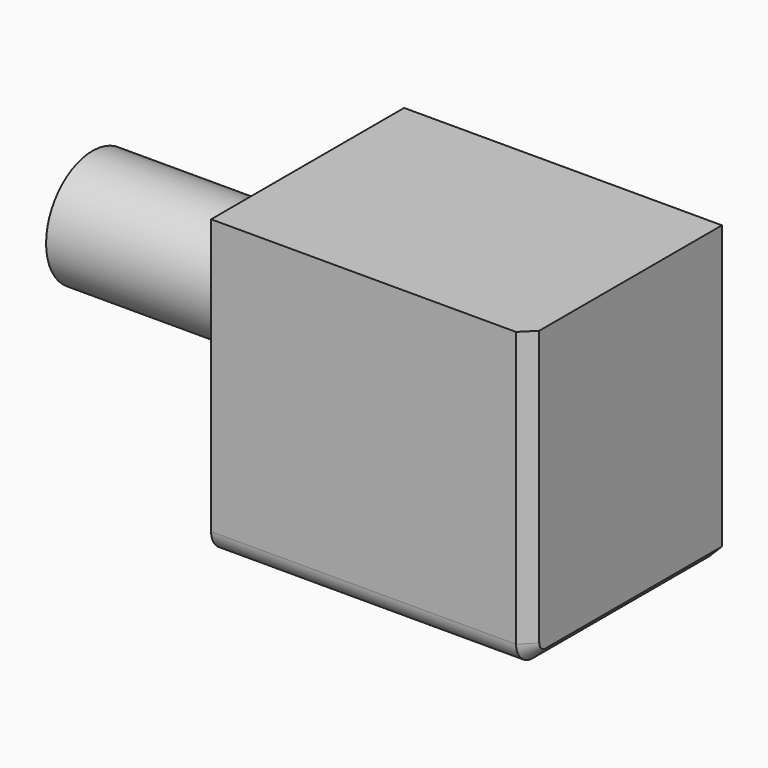
from build123d import *

# Parameters (mm, degrees)
F0_W     = 125.304118
F0_H     = 116.59091
F1_DEPTH = 95.108278
F2_R     = 8.21097
F3_SIZE  = 5.08
F4_R     = 22.853538
F5_DEPTH = 71.891591


with BuildPart() as f1:
    # F0 (on Front) → F1 (new body)
    with BuildSketch(Plane.XZ):
        with Locations((1.244716, -1.867104)):
            Rectangle(F0_W, F0_H)
    extrude(amount=F1_DEPTH)

    # F2
    f2_edges = [f1.edges().sort_by_distance(p)[0] for p in [
        (1.244716, -95.108278, -60.162559),
    ]]
    fillet(f2_edges, radius=F2_R)

    # F3
    f3_edges = [f1.edges().sort_by_distance(p)[0] for p in [
        (63.896775, -95.108278, 2.238381),
    ]]
    chamfer(f3_edges, length=F3_SIZE)

    # F4 (on face) → F5 (join)
    with BuildSketch(Plane(origin=(-61.407343, 0, 0), x_dir=(0, -1, 0), z_dir=(-1, 0, 0))):
        with Locations((63.728884, 21.200262)):
            Circle(F4_R)
    extrude(amount=F5_DEPTH)


solid = f1.part
